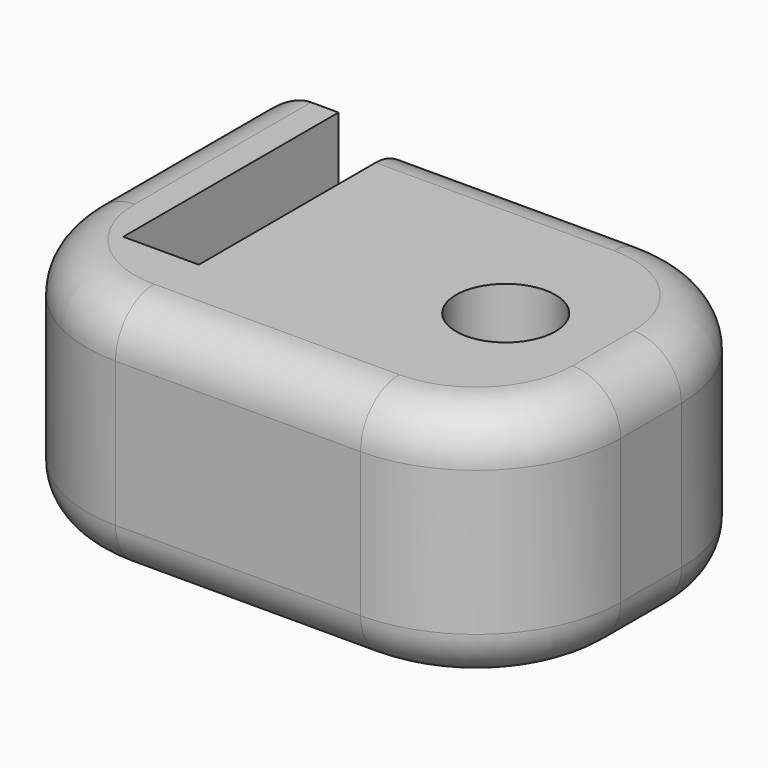
from build123d import *

# Parameters (mm, degrees)
F0_R     = 5.153472
F1_DEPTH = 25
F2_R     = 5


with BuildPart() as f1:
    # F0 (on Top) → F1 (new body)
    with BuildSketch(Plane.XY):
        with BuildLine():
            ThreePointArc((32.810666, 7.318925), (28.417267, 17.925526), (17.810666, 22.318925))
            Line((17.810666, 22.318925), (-6.933139, 22.318925))
            Line((-6.933139, 22.318925), (-6.933139, -5.625001))
            Line((-6.933139, -5.625001), (-14.781976, -5.625001))
            Line((-14.781976, -5.625001), (-14.781976, 22.318925))
            Line((-14.781976, 22.318925), (-22.630814, 22.318925))
            Line((-22.630814, 22.318925), (-22.630814, -0.566861))
            ThreePointArc((-22.630814, -0.566861), (-18.237416, -11.173463), (-7.630814, -15.566861))
            Line((-7.630814, -15.566861), (17.810666, -15.566861))
            ThreePointArc((17.810666, -15.566861), (28.417267, -11.173463), (32.810666, -0.566861))
            Line((32.810666, -0.566861), (32.810666, 7.318925))
        make_face()
        with Locations((17.810666, 3.270349)):
            Circle(F0_R, mode=Mode.SUBTRACT)
    extrude(amount=F1_DEPTH)

    # F2
    f2_edges = [f1.edges().sort_by_distance(p)[0] for p in [
        (5.438763, 22.318925, 0),
        (5.438763, 22.318925, 25),
        (-22.630814, 22.318925, 12.5),
    ]]
    fillet(f2_edges, radius=F2_R)


solid = f1.part
